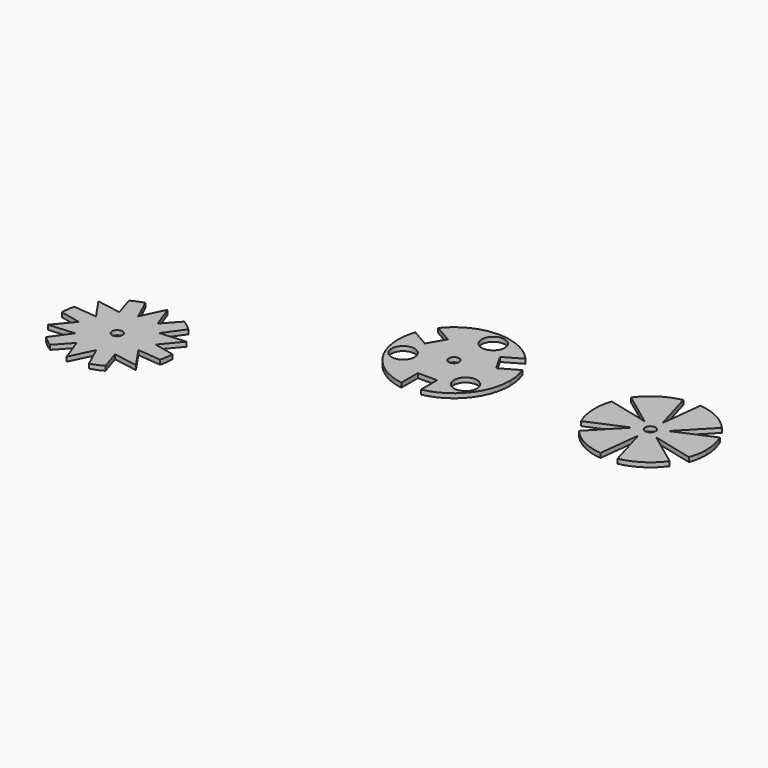
from build123d import *

# Parameters (mm, degrees)
F0_R     = 3.5
F1_DEPTH = 3
F2_R     = 7.733671
F2_R_2   = 3.5
F3_DEPTH = 3
F4_R     = 3.5
F5_DEPTH = 3


with BuildPart() as f1:
    # F0 (on Top) → F1 (new body)
    with BuildSketch(Plane.XY):
        with BuildLine():
            Line((-9.718686, -21.802576), (-4.02755, -37.283091))
            Line((-4.02755, -37.283091), (3.402607, -21.802576))
            Line((3.402607, -21.802576), (9.979824, -36.147657))
            ThreePointArc((9.979824, -36.147657), (14.248099, -34.687774), (18.310194, -32.725935))
            Line((18.310194, -32.725935), (14.022242, -19.317917))
            Line((14.022242, -19.317917), (30.274328, -22.129506))
            Line((30.274328, -22.129506), (20.582888, -7.954544))
            Line((20.582888, -7.954544), (36.294701, -9.431048))
            ThreePointArc((36.294701, -9.431048), (37.164543, -5.004672), (37.496588, -0.505875))
            Line((37.496588, -0.505875), (23.740928, 2.484659))
            Line((23.740928, 2.484659), (34.301879, 15.153584))
            Line((34.301879, 15.153584), (17.180281, 13.848032))
            Line((17.180281, 13.848032), (26.314878, 26.716609))
            ThreePointArc((26.314878, 26.716609), (22.916444, 29.683102), (19.186394, 32.22006))
            Line((19.186394, 32.22006), (9.718686, 21.802576))
            Line((9.718686, 21.802576), (4.02755, 37.283091))
            Line((4.02755, 37.283091), (-3.402607, 21.802576))
            Line((-3.402607, 21.802576), (-9.979824, 36.147657))
            ThreePointArc((-9.979824, 36.147657), (-14.248099, 34.687774), (-18.310194, 32.725935))
            Line((-18.310194, 32.725935), (-14.022242, 19.317917))
            Line((-14.022242, 19.317917), (-30.274328, 22.129506))
            Line((-30.274328, 22.129506), (-20.582888, 7.954544))
            Line((-20.582888, 7.954544), (-36.294701, 9.431048))
            ThreePointArc((-36.294701, 9.431048), (-37.164543, 5.004672), (-37.496588, 0.505875))
            Line((-37.496588, 0.505875), (-23.740928, -2.484659))
            Line((-23.740928, -2.484659), (-34.301879, -15.153584))
            Line((-34.301879, -15.153584), (-17.180281, -13.848032))
            Line((-17.180281, -13.848032), (-26.314878, -26.716609))
            ThreePointArc((-26.314878, -26.716609), (-22.916444, -29.683102), (-19.186394, -32.22006))
            Line((-19.186394, -32.22006), (-9.718686, -21.802576))
        make_face()
        Circle(F0_R, mode=Mode.SUBTRACT)
    extrude(amount=-F1_DEPTH)


with BuildPart() as f3:
    # F2 (on Top) → F3 (new body)
    with BuildSketch(Plane.XY):
        with BuildLine():
            ThreePointArc((124.941746, 93.820376), (123.447566, 87.865658), (122.945017, 81.746943))
            ThreePointArc((122.945017, 81.746943), (132.005552, 57.304217), (154.808849, 44.672914))
            Line((154.808849, 44.672914), (154.808849, 58.534061))
            Line((154.808849, 58.534061), (167.740753, 58.534061))
            Line((167.740753, 58.534061), (167.740753, 44.963493))
            ThreePointArc((167.740753, 44.963493), (189.426391, 57.949255), (197.945017, 81.746943))
            ThreePointArc((197.945017, 81.746943), (197.295678, 88.695233), (195.370151, 95.402893))
            Line((195.370151, 95.402893), (183.366047, 88.47232))
            Line((183.366047, 88.47232), (176.900095, 99.671678))
            Line((176.900095, 99.671678), (188.652551, 106.456962))
            ThreePointArc((188.652551, 106.456962), (175.930886, 115.900096), (160.445017, 119.246943))
            ThreePointArc((160.445017, 119.246943), (144.195831, 115.5436), (131.15605, 105.165022))
            Line((131.15605, 105.165022), (143.160154, 98.234449))
            Line((143.160154, 98.234449), (136.694202, 87.035092))
            Line((136.694202, 87.035092), (124.941746, 93.820376))
        make_face()
        with Locations((134.419895, 71.648038)):
            Circle(F2_R, mode=Mode.SUBTRACT)
        with Locations((160.445017, 81.746943)):
            Circle(F2_R_2, mode=Mode.SUBTRACT)
        with Locations((182.203487, 64.257979)):
            Circle(F2_R, mode=Mode.SUBTRACT)
        with Locations((164.711669, 109.334813)):
            Circle(F2_R, mode=Mode.SUBTRACT)
    extrude(amount=F3_DEPTH)


with BuildPart() as f5:
    # F4 (on Top) → F5 (new body)
    with BuildSketch(Plane.XY):
        with BuildLine():
            ThreePointArc((254.2181, 96.839968), (252.735201, 90.906578), (252.23648, 84.811056))
            ThreePointArc((252.23648, 84.811056), (253.077866, 76.911941), (255.564268, 69.36729))
            Line((255.564268, 69.36729), (281.178402, 80.435794))
            Line((281.178402, 80.435794), (261.559947, 60.065693))
            ThreePointArc((261.559947, 60.065693), (272.598371, 51.456368), (286.025068, 47.495169))
            Line((286.025068, 47.495169), (289.246529, 75.211912))
            Line((289.246529, 75.211912), (297.078326, 48.036781))
            ThreePointArc((297.078326, 48.036781), (310.053433, 53.291675), (320.19728, 62.938936))
            Line((320.19728, 62.938936), (297.804607, 79.587175))
            Line((297.804607, 79.587175), (325.254859, 72.782145))
            ThreePointArc((325.254859, 72.782145), (326.737758, 78.715535), (327.23648, 84.811056))
            ThreePointArc((327.23648, 84.811056), (326.395093, 92.710172), (323.908691, 100.254823))
            Line((323.908691, 100.254823), (298.294557, 89.186319))
            Line((298.294557, 89.186319), (317.913012, 109.556419))
            ThreePointArc((317.913012, 109.556419), (306.874588, 118.165745), (293.447891, 122.126943))
            Line((293.447891, 122.126943), (290.22643, 94.4102))
            Line((290.22643, 94.4102), (282.394633, 121.585331))
            ThreePointArc((282.394633, 121.585331), (269.419526, 116.330438), (259.275679, 106.683177))
            Line((259.275679, 106.683177), (281.668352, 90.034937))
            Line((281.668352, 90.034937), (254.2181, 96.839968))
        make_face()
        with Locations((289.73648, 84.811056)):
            Circle(F4_R, mode=Mode.SUBTRACT)
    extrude(amount=F5_DEPTH)


solid = Compound([f1.part, f3.part, f5.part])
